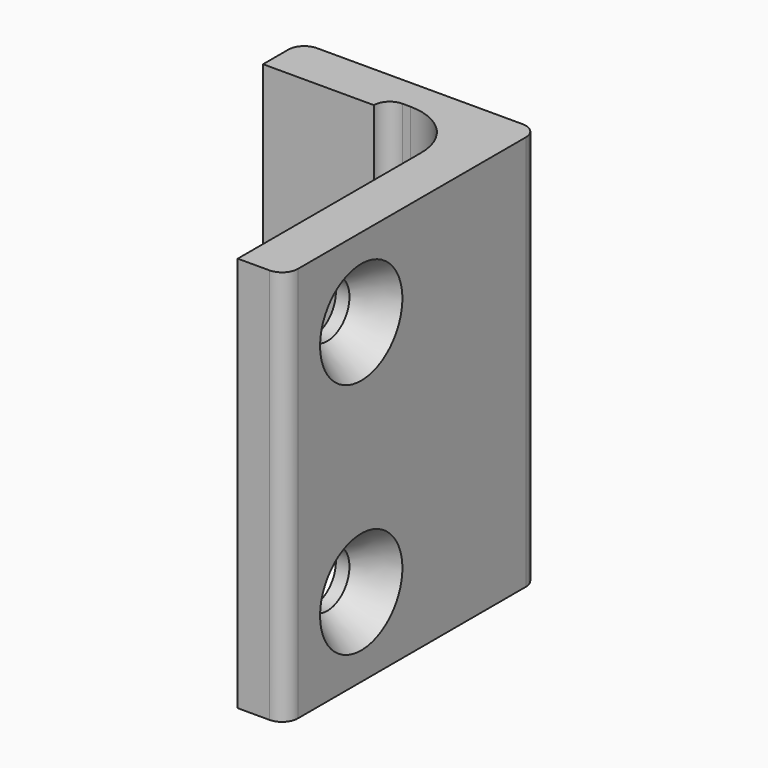
from build123d import *

# Parameters (mm, degrees)
F1_DEPTH       = 25
F3_D           = 3.5
F3_CSINK_D     = 6.5
F3_CSINK_ANGLE = 70


with BuildPart() as f1:
    # F0 (on Top) → F1 (new body)
    with BuildSketch(Plane.XY):
        with BuildLine():
            Line((4.472217, -11.782544), (-8.527783, -11.782544))
            ThreePointArc((-8.527783, -11.782544), (-9.23489, -12.075437), (-9.527783, -12.782544))
            Line((-9.527783, -12.782544), (-9.527783, -14.782544))
            Line((-9.527783, -14.782544), (-2.527783, -14.782544))
            ThreePointArc((-2.527783, -14.782544), (-2.23489, -14.075437), (-1.527783, -13.782544))
            Line((-1.527783, -13.782544), (-1.027783, -13.782544))
            ThreePointArc((-1.027783, -13.782544), (1.447091, -14.80767), (2.472217, -17.282544))
            Line((2.472217, -17.282544), (2.472217, -31.782544))
            Line((2.472217, -31.782544), (4.472217, -31.782544))
            ThreePointArc((4.472217, -31.782544), (5.179324, -31.489651), (5.472217, -30.782544))
            Line((5.472217, -30.782544), (5.472217, -12.782544))
            ThreePointArc((5.472217, -12.782544), (5.179324, -12.075437), (4.472217, -11.782544))
        make_face()
    extrude(amount=F1_DEPTH)

    # F3 (through all)
    with Locations(Plane.YZ.offset(5.472217)):
        with Locations((-25.782544, 20), (-25.782544, 5)):
            CounterSinkHole(F3_D / 2, F3_CSINK_D / 2, counter_sink_angle=F3_CSINK_ANGLE)


solid = f1.part
